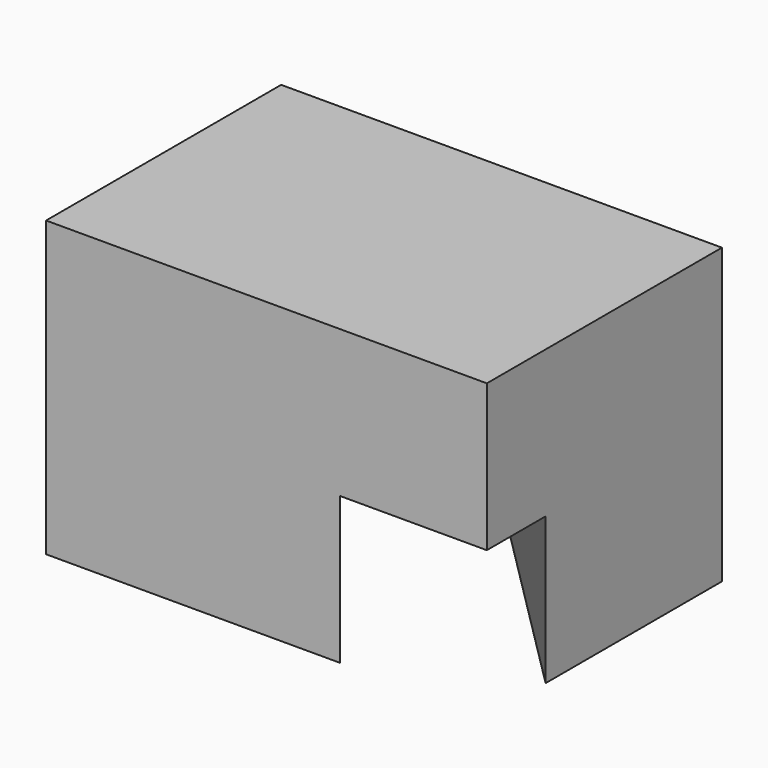
from build123d import *

# Parameters (mm, degrees)
F0_W     = 38.1
F0_H     = 25.4
F1_DEPTH = 25.4
F3_DEPTH = 12.7


with BuildPart() as f1:
    # F0 (on Front) → F1 (new body)
    with BuildSketch(Plane.XZ):
        with Locations((19.05, 12.7)):
            Rectangle(F0_W, F0_H)
    extrude(amount=F1_DEPTH)

    # F2 (on Top) → F3 (cut)
    with BuildSketch(Plane.XY):
        Polygon((19.05, 0), (0, 0), (25.4, -25.4), (38.1, -25.4), (38.1, -19.05), align=None)
    extrude(amount=F3_DEPTH, mode=Mode.SUBTRACT)


solid = f1.part
